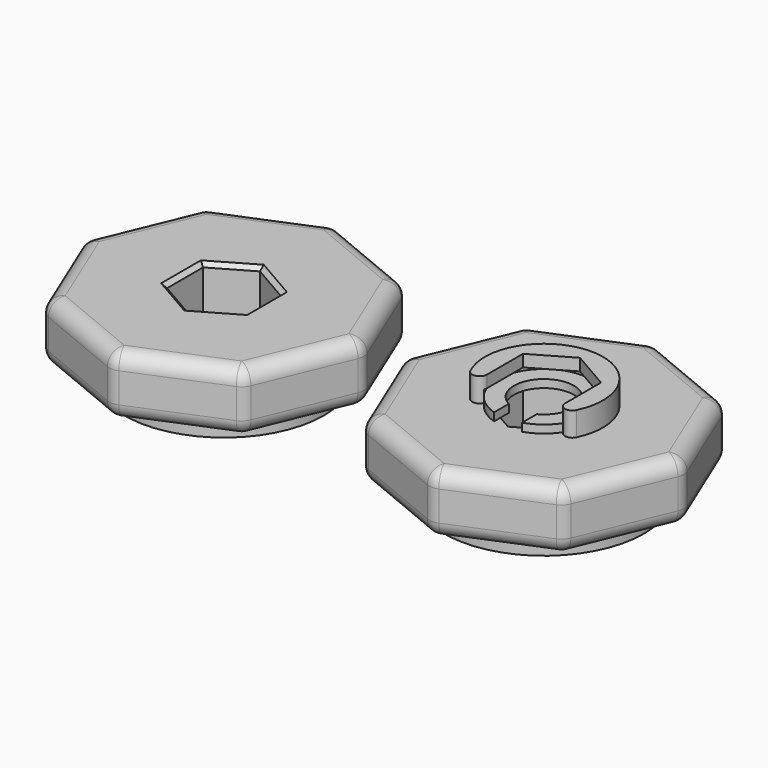
from build123d import *

# Parameters (mm, degrees)
SKETCH_R      = 25
SKETCH_R_2    = 7
PAD_DEPTH     = 5
PAD001_DEPTH  = 15
FILLET_R      = 3.75
CHAMFER_SIZE  = 1
SKETCH002_R   = 25
SKETCH002_R_2 = 7
PAD002_DEPTH  = 5
PAD003_DEPTH  = 15
FILLET001_R   = 3.75
PAD004_DEPTH  = 6
SKETCH005_R   = 11.75
POCKET_DEPTH  = 3
PAD005_DEPTH  = 2


with BuildPart() as hex_head_bolt:
    # Sketch → Pad (new body)
    with BuildSketch(Plane.XY):
        Circle(SKETCH_R)
        Circle(SKETCH_R_2, mode=Mode.SUBTRACT)
    extrude(amount=PAD_DEPTH)

    # Sketch001 (on Face4 of Pad) → Pad001 (join)
    with BuildSketch(Plane.XY.offset(5)):
        Polygon((35.25, 0), (24.925514, 24.925514), (0, 35.25), (-24.925514, 24.925514), (-35.25, 0), (-24.925514, -24.925514), (0, -35.25), (24.925514, -24.925514), align=None)
        Polygon((0, 11.25833), (-9.75, 5.629165), (-9.75, -5.629165), (0, -11.25833), (9.75, -5.629165), (9.75, 5.629165), align=None, mode=Mode.SUBTRACT)
    extrude(amount=PAD001_DEPTH)

    # Fillet
    fillet_edges = [hex_head_bolt.edges().sort_by_distance(p)[0] for p in [
        (24.925514, -24.925514, 12.5),
        (35.25, 0, 12.5),
        (30.087757, -12.462757, 5),
        (30.087757, -12.462757, 20),
        (24.925514, 24.925514, 12.5),
        (30.087757, 12.462757, 5),
        (30.087757, 12.462757, 20),
        (0, 35.25, 12.5),
        (12.462757, 30.087757, 5),
        (12.462757, 30.087757, 20),
        (-24.925514, 24.925514, 12.5),
        (-12.462757, 30.087757, 5),
        (-12.462757, 30.087757, 20),
        (-35.25, 0, 12.5),
        (-30.087757, 12.462757, 5),
        (-30.087757, 12.462757, 20),
        (-24.925514, -24.925514, 12.5),
        (-30.087757, -12.462757, 5),
        (-30.087757, -12.462757, 20),
        (0, -35.25, 12.5),
        (-12.462757, -30.087757, 5),
        (-12.462757, -30.087757, 20),
        (12.462757, -30.087757, 5),
        (12.462757, -30.087757, 20),
    ]]
    fillet(fillet_edges, radius=FILLET_R)

    # Chamfer
    chamfer_edges = [hex_head_bolt.edges().sort_by_distance(p)[0] for p in [
        (-9.75, 0, 20),
        (-4.875, -8.443748, 20),
        (4.875, -8.443748, 20),
        (9.75, 0, 20),
        (4.875, 8.443748, 20),
        (-4.875, 8.443748, 20),
    ]]
    chamfer(chamfer_edges, length=CHAMFER_SIZE)


with BuildPart() as hex_head_nut:
    # Sketch002 → Pad002 (new body)
    with BuildSketch(Plane.XY):
        Circle(SKETCH002_R)
        Circle(SKETCH002_R_2, mode=Mode.SUBTRACT)
    extrude(amount=PAD002_DEPTH)

    # Sketch003 (on Face4 of Pad002) → Pad003 (join)
    with BuildSketch(Plane.XY.offset(5)):
        Polygon((0, -35.25), (24.925514, -24.925514), (35.25, 0), (24.925514, 24.925514), (0, 35.25), (-24.925514, 24.925514), (-35.25, 0), (-24.925514, -24.925514), align=None)
        Polygon((0, -11.25833), (9.75, -5.629165), (9.75, 5.629165), (0, 11.25833), (-9.75, 5.629165), (-9.75, -5.629165), align=None, mode=Mode.SUBTRACT)
    extrude(amount=PAD003_DEPTH)

    # Fillet001
    fillet001_edges = [hex_head_nut.edges().sort_by_distance(p)[0] for p in [
        (-24.925514, -24.925514, 12.5),
        (0, -35.25, 12.5),
        (-12.462757, -30.087757, 5),
        (-12.462757, -30.087757, 20),
        (-35.25, 0, 12.5),
        (-30.087757, -12.462757, 5),
        (-30.087757, -12.462757, 20),
        (24.925514, -24.925514, 12.5),
        (12.462757, -30.087757, 5),
        (12.462757, -30.087757, 20),
        (35.25, 0, 12.5),
        (30.087757, -12.462757, 5),
        (30.087757, -12.462757, 20),
        (24.925514, 24.925514, 12.5),
        (30.087757, 12.462757, 5),
        (30.087757, 12.462757, 20),
        (0, 35.25, 12.5),
        (12.462757, 30.087757, 5),
        (12.462757, 30.087757, 20),
        (-24.925514, 24.925514, 12.5),
        (-12.462757, 30.087757, 5),
        (-12.462757, 30.087757, 20),
        (-30.087757, 12.462757, 5),
        (-30.087757, 12.462757, 20),
    ]]
    fillet(fillet001_edges, radius=FILLET001_R)

    # Sketch004 (on Face46 of Fillet001) → Pad004 (join)
    with BuildSketch(Plane.XY.offset(20)):
        with BuildLine():
            Line((9.75, -5.629165), (9.75, 5.629165))
            Line((9.75, 5.629165), (0, 11.25833))
            Line((0, 11.25833), (-9.75, 5.629165))
            Line((-9.75, 5.629165), (-9.75, -5.629165))
            ThreePointArc((-13.270764, -6.438116), (-11.188302, -7.435417), (-9.75, -5.629165))
            ThreePointArc((13.270769, -6.438104), (-7e-06, 14.75), (-13.270764, -6.438116))
            ThreePointArc((9.75, -5.629165), (11.188308, -7.435418), (13.270769, -6.438104))
        make_face()
    extrude(amount=PAD004_DEPTH)

    # Sketch005 (on Face46 of Pad004) → Pocket (cut)
    with BuildSketch(Plane.XY.offset(20)):
        Circle(SKETCH005_R)
    extrude(amount=POCKET_DEPTH, mode=Mode.SUBTRACT)


with BuildPart() as hex_head_nut_1:
    # Body001 placement: moved
    add(hex_head_nut.part.moved(Location((80, 0, 0))))


with BuildPart() as spring_clip:
    # Sketch006 → Pad005 (new body)
    with BuildSketch(Plane.XY):
        with BuildLine():
            ThreePointArc((3.5, -11.216617), (0, 11.75), (-3.5, -11.216617))
            Line((-3.5, -6.63325), (-3.5, -11.216617))
            ThreePointArc((3.5, -6.63325), (0, 7.5), (-3.5, -6.63325))
            Line((3.5, -6.63325), (3.5, -11.216617))
        make_face()
    extrude(amount=PAD005_DEPTH)


with BuildPart() as spring_clip_1:
    # Body002 placement: moved
    add(spring_clip.part.moved(Location((80, 0, 20))))


solid = Compound([hex_head_bolt.part, hex_head_nut_1.part, spring_clip_1.part])
